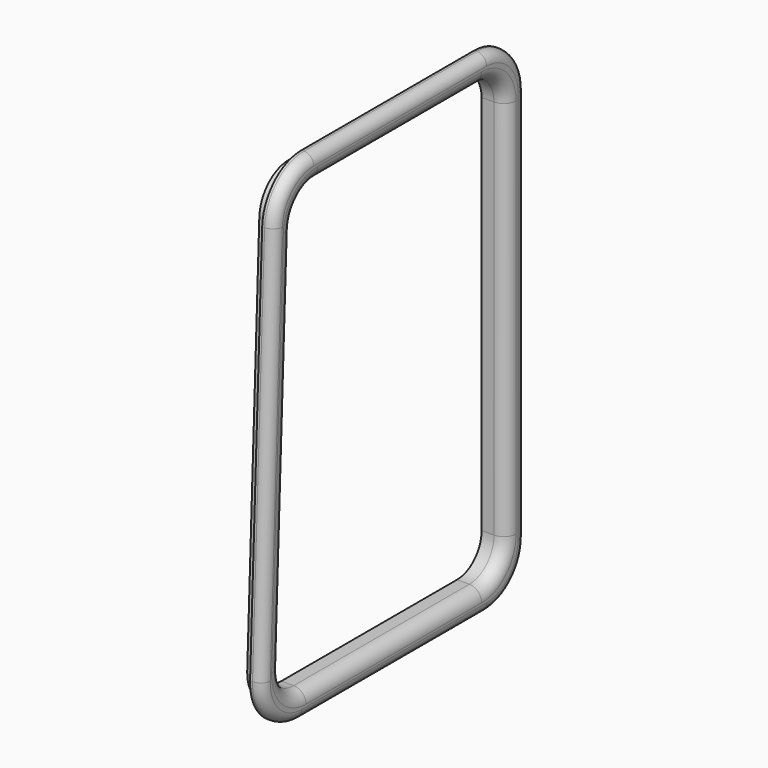
from build123d import *

# Parameters (mm, degrees)
BOX047_W          = 5
BOX047_H          = 24
BOX047_DEPTH      = 40
BOX047_ROLL_ANGLE = -2.2
BOX046_W          = 5
BOX046_H          = 23
BOX046_DEPTH      = 36
FILLET050_R       = 2.5
BOX045_W          = 5
BOX045_H          = 24
BOX045_DEPTH      = 40
BOX045_ROLL_ANGLE = -2.2
BOX044_W          = 2
BOX044_H          = 25
BOX044_DEPTH      = 38
FILLET049_R       = 3
BOX043_W          = 5
BOX043_H          = 24
BOX043_DEPTH      = 42
BOX043_ROLL_ANGLE = -2.2
BOX042_W          = 1
BOX042_H          = 27
BOX042_DEPTH      = 40
FILLET048_R       = 4
FILLET051_R       = 1
FILLET052_R       = 0.8


with BuildPart() as cube473:
    # Box047 → Box047 (new body)
    with BuildSketch(Plane.XY):
        with Locations((2.5, 12)):
            Rectangle(BOX047_W, BOX047_H)
    extrude(amount=BOX047_DEPTH)


with BuildPart() as cube473_1:
    # Box047 roll: moved
    add(cube473.part.rotate(Axis((0, 0, 0), (1, 0, 0)), BOX047_ROLL_ANGLE))


with BuildPart() as cube473_2:
    # Box047 placement: moved
    add(cube473_1.part.moved(Location((175, -24, -1))))


with BuildPart() as fillet050:
    # Box046 → Box046 (new body)
    with BuildSketch(Plane(origin=(175, 0, 0), x_dir=(1, 0, 0), z_dir=(0, 0, 1))):
        with Locations((2.5, 11.5)):
            Rectangle(BOX046_W, BOX046_H)
    extrude(amount=BOX046_DEPTH)

    # Cut034: cut Cube473
    add(cube473_2.part, mode=Mode.SUBTRACT)


with BuildPart() as fillet050_1:
    # Cut034 placement: moved
    add(fillet050.part.moved(Location((-57, 17, 74))))

    # Fillet050
    fillet050_edges = [fillet050_1.edges().sort_by_distance(p)[0] for p in [
        (120.5, 40, 110),
        (120.5, 18.4391, 110),
        (120.5, 40, 74),
        (120.5, 17.056119, 74),
    ]]
    fillet(fillet050_edges, radius=FILLET050_R)


with BuildPart() as fillet050_2:
    # Fillet050 placement: moved
    add(fillet050_1.part.moved(Location((0, 1, 1))))


with BuildPart() as cube471:
    # Box045 → Box045 (new body)
    with BuildSketch(Plane.XY):
        with Locations((2.5, 12)):
            Rectangle(BOX045_W, BOX045_H)
    extrude(amount=BOX045_DEPTH)


with BuildPart() as cube471_1:
    # Box045 roll: moved
    add(cube471.part.rotate(Axis((0, 0, 0), (1, 0, 0)), BOX045_ROLL_ANGLE))


with BuildPart() as cube471_2:
    # Box045 placement: moved
    add(cube471_1.part.moved(Location((175, -24, -1))))


with BuildPart() as fillet049:
    # Box044 → Box044 (new body)
    with BuildSketch(Plane(origin=(175, 0, 0), x_dir=(1, 0, 0), z_dir=(0, 0, 1))):
        with Locations((1, 12.5)):
            Rectangle(BOX044_W, BOX044_H)
    extrude(amount=BOX044_DEPTH)

    # Cut033: cut Cube471
    add(cube471_2.part, mode=Mode.SUBTRACT)


with BuildPart() as fillet049_1:
    # Cut033 placement: moved
    add(fillet049.part.moved(Location((-57, 17, 74))))

    # Fillet049
    fillet049_edges = [fillet049_1.edges().sort_by_distance(p)[0] for p in [
        (119, 42, 112),
        (119, 18.515932, 112),
        (119, 42, 74),
        (119, 17.056119, 74),
    ]]
    fillet(fillet049_edges, radius=FILLET049_R)


with BuildPart() as fillet049_2:
    # Fillet049 placement: moved
    add(fillet049_1.part.moved(Location((3, 0, 0))))


with BuildPart() as cube469:
    # Box043 → Box043 (new body)
    with BuildSketch(Plane.XY):
        with Locations((2.5, 12)):
            Rectangle(BOX043_W, BOX043_H)
    extrude(amount=BOX043_DEPTH)


with BuildPart() as cube469_1:
    # Box043 roll: moved
    add(cube469.part.rotate(Axis((0, 0, 0), (1, 0, 0)), BOX043_ROLL_ANGLE))


with BuildPart() as cube469_2:
    # Box043 placement: moved
    add(cube469_1.part.moved(Location((175, -24, -1))))


with BuildPart() as fillet052:
    # Box042 → Box042 (new body)
    with BuildSketch(Plane(origin=(175, 0, 0), x_dir=(1, 0, 0), z_dir=(0, 0, 1))):
        with Locations((0.5, 13.5)):
            Rectangle(BOX042_W, BOX042_H)
    extrude(amount=BOX042_DEPTH)

    # Cut032: cut Cube469
    add(cube469_2.part, mode=Mode.SUBTRACT)


with BuildPart() as fillet052_1:
    # Cut032 placement: moved
    add(fillet052.part.moved(Location((-57, 16, 73))))

    # Fillet048
    fillet048_edges = [fillet052_1.edges().sort_by_distance(p)[0] for p in [
        (118.5, 43, 113),
        (118.5, 17.592764, 113),
        (118.5, 43, 73),
        (118.5, 16.056119, 73),
    ]]
    fillet(fillet048_edges, radius=FILLET048_R)


with BuildPart() as fillet052_2:
    # Fillet048 placement: moved
    add(fillet052_1.part.moved(Location((4, 0, 0))))

    # Fusion005: union Fillet049
    add(fillet049_2.part)

    # Cut035: cut Fillet050
    add(fillet050_2.part, mode=Mode.SUBTRACT)

    # Fillet051
    fillet051_edges = [fillet052_2.edges().sort_by_distance(p)[0] for p in [
        (123, 41, 93),
        (123, 18.751296, 93.09597),
    ]]
    fillet(fillet051_edges, radius=FILLET051_R)

    # Fillet052
    fillet052_edges = [fillet052_2.edges().sort_by_distance(p)[0] for p in [
        (123, 16.830341, 93.153551),
        (123, 43, 93),
    ]]
    fillet(fillet052_edges, radius=FILLET052_R)


solid = fillet052_2.part
